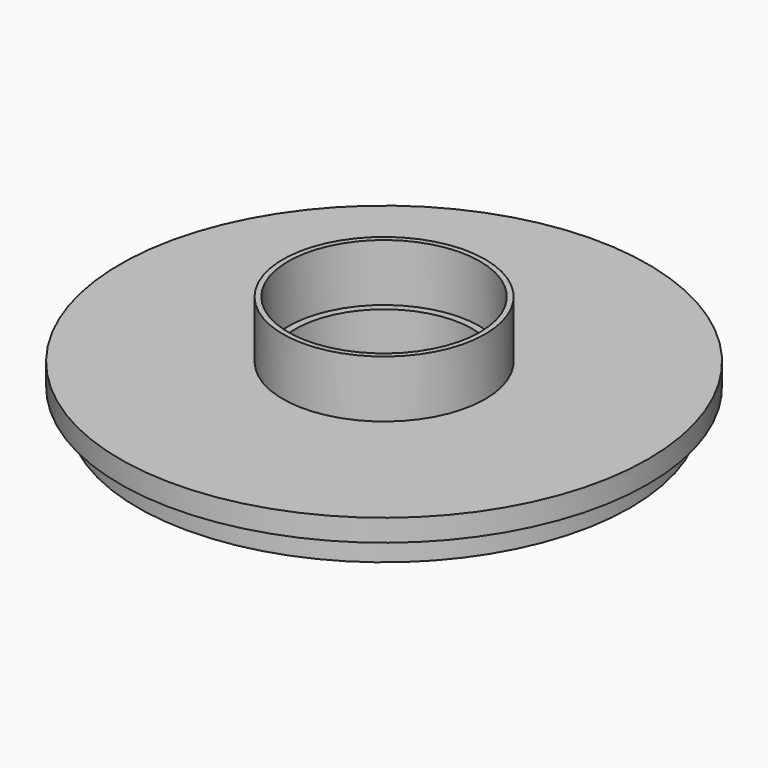
from build123d import *

# Parameters (mm, degrees)
F0_W   = 34.2
F0_H   = 6
F0_W_2 = 1.2
F0_H_2 = 13
F0_W_3 = 1.65
F0_H_3 = 5


with BuildPart() as f1:
    # F0 (on Front) → F1 (revolve)
    with BuildSketch(Plane.XZ):
        with Locations((38.9, -3)):
            Rectangle(F0_W, F0_H)
        Polygon((21.8, 0), (56, 0), (60, 0), (60, 5), (24.65, 5), (23, 5), (21.8, 5), align=None)
        with Locations((22.4, 11.5)):
            Rectangle(F0_W_2, F0_H_2)
        with Locations((20.975, 2.5)):
            Rectangle(F0_W_3, F0_H_3)
        with Locations((20.975, -3)):
            Rectangle(F0_W_3, F0_H)
    revolve(axis=Axis((0, 0, -3), (0, 0, -1)))


solid = f1.part
